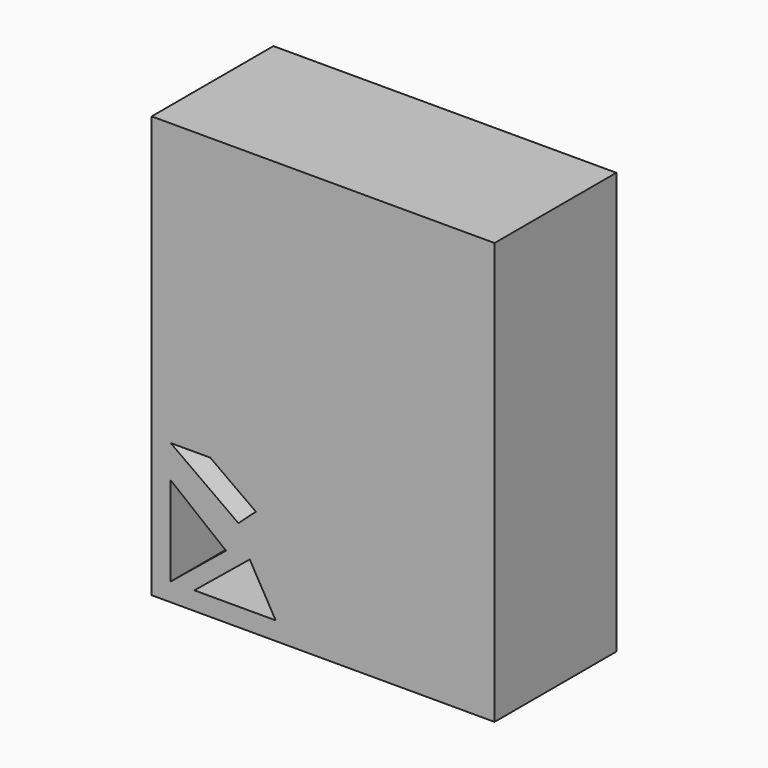
from build123d import *

# Parameters (mm, degrees)
F0_W     = 57.224858
F0_H     = 70.358
F1_DEPTH = 25.4
F3_DEPTH = 25.401


with BuildPart() as f1:
    # F0 (on Front) → F1 (new body)
    with BuildSketch(Plane.XZ):
        Rectangle(F0_W, F0_H)
    extrude(amount=F1_DEPTH)

    # F2 (on face) → F3 (cut, through all)
    with BuildSketch(Plane.XZ.offset(25.4)):
        Polygon((-25.444876, -11.780036), (-14.136042, -19.8847), (-11.22117, -17.245971), (-18.848056, -11.780036), align=None)
        Polygon((-25.444876, -17.245971), (-25.444876, -32.135937), (-16.209329, -24.596713), align=None)
        Polygon((-12.251237, -24.596713), (-21.486785, -32.135937), (-7.916184, -32.135937), align=None)
    extrude(amount=-F3_DEPTH, mode=Mode.SUBTRACT)


solid = f1.part
